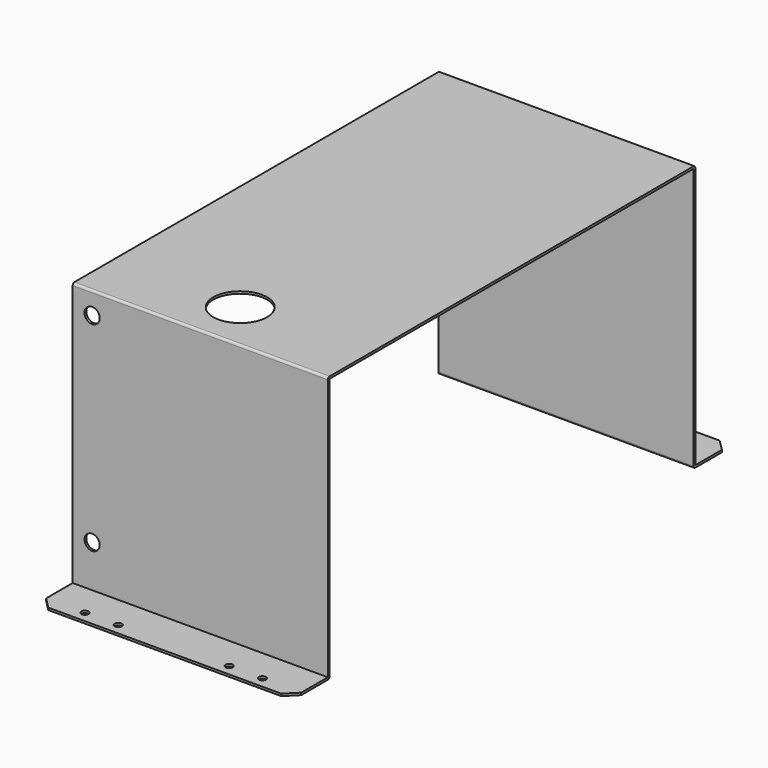
from build123d import *

# Parameters (mm, degrees)
F1_DEPTH  = 230
F3_D      = 48.6
F5_D      = 6.5
F6_D      = 5.5
F7_SIZE   = 10
F9_D      = 13.72
F9_DEPTH  = 5
F11_D     = 19.05
F11_DEPTH = 5
F12_D     = 12.7
F12_DEPTH = 5


with BuildPart() as f1:
    # F0 (on Right) → F1 (new body)
    with BuildSketch(Plane.YZ):
        with BuildLine():
            Line((205, 0), (-205, 0))
            ThreePointArc((-205, 0), (-206.414214, -0.585786), (-207, -2))
            Line((-207, -2), (-207, -238))
            Line((-207, -238), (-247, -238))
            Line((-247, -238), (-247, -240))
            Line((-247, -240), (-207, -240))
            ThreePointArc((-207, -240), (-205.585786, -239.414214), (-205, -238))
            Line((-205, -238), (-205, -2))
            Line((-205, -2), (205, -2))
            Line((205, -2), (205, -238))
            ThreePointArc((205, -238), (205.585786, -239.414214), (207, -240))
            Line((207, -240), (247, -240))
            Line((247, -240), (247, -238))
            Line((247, -238), (207, -238))
            Line((207, -238), (207, -2))
            ThreePointArc((207, -2), (206.414214, -0.585786), (205, 0))
        make_face()
    extrude(amount=F1_DEPTH)

    # F3 (through all)
    with Locations(Plane.XY):
        with Locations((115, -162)):
            Hole(F3_D / 2)

    # F5 (through all)
    with Locations(Plane.XY.offset(-238)):
        with Locations((35, -237), (65, -237), (165, -237), (195, -237)):
            Hole(F5_D / 2)

    # F6 (through all)
    with Locations(Plane.XY.offset(-238)):
        with Locations((35, 237), (65, 237), (165, 237), (195, 237)):
            Hole(F6_D / 2)

    # F7
    f7_edges = [f1.edges().sort_by_distance(p)[0] for p in [
        (0, -247, -239),
        (230, -247, -239),
        (230, 247, -239),
        (0, 247, -239),
    ]]
    chamfer(f7_edges, length=F7_SIZE)

    # F9
    with Locations(Plane.XZ.offset(207)):
        with Locations((17.5, -20), (17.5, -200)):
            Hole(F9_D / 2, depth=F9_DEPTH)

    # F11
    with Locations(Plane(origin=(0, 207, 0), x_dir=(-1, 0, 0), z_dir=(0, 1, 0))):
        with Locations((-115, -20)):
            Hole(F11_D / 2, depth=F11_DEPTH)

    # F12
    with Locations(Plane(origin=(0, 207, 0), x_dir=(-1, 0, 0), z_dir=(0, 1, 0))):
        with Locations((-40, -20)):
            Hole(F12_D / 2, depth=F12_DEPTH)


solid = f1.part
